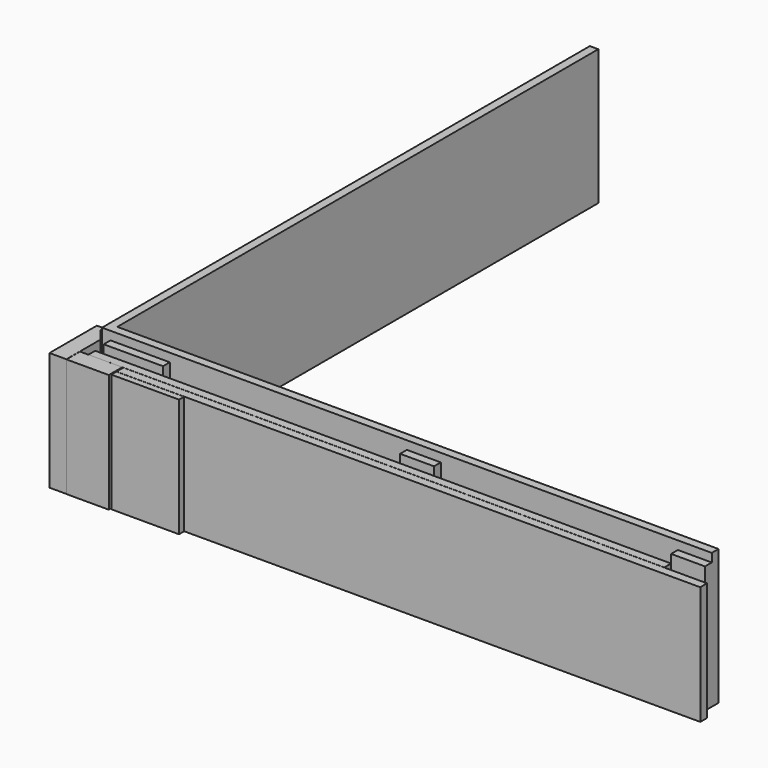
from build123d import *

# Parameters (mm, degrees)
F1_DEPTH  = 203.2
F2_W      = 50.8
F2_H      = 12.7
F2_W_2    = 88.9
F2_W_3    = 12.7
F2_H_2    = 88.9
F2_H_3    = 50.8
F3_DEPTH  = 190.5
F4_W      = 25.4
F4_H      = 88.9
F4_W_2    = 63.5
F4_H_2    = 25.4
F5_DEPTH  = 177.8
F6_W      = 15.875
F6_H      = 847.4964
F7_DEPTH  = 177.8
F8_W      = 863.6
F8_H      = 12.7
F9_DEPTH  = 177.8
F10_W     = 875.475859
F10_H     = 12.7
F10_W_2   = 101.6
F10_H_2   = 9.525
F11_DEPTH = 177.8


with BuildPart() as f1:
    # F0 (on Top) → F1 (new body)
    with BuildSketch(Plane.XY):
        Polygon((0, 914.4), (0, 0), (914.4, 0), (914.4, 12.7), (12.7, 12.7), (12.7, 914.4), align=None)
    extrude(amount=F1_DEPTH)

    # F2 (on Top) → F3 (join)
    with BuildSketch(Plane.XY):
        with Locations((482.6, -6.35)):
            Rectangle(F2_W, F2_H)
        with Locations((889, -6.35)):
            Rectangle(F2_W, F2_H)
        with Locations((57.15, -6.35)):
            Rectangle(F2_W_2, F2_H)
        with Locations((-6.35, 57.15)):
            Rectangle(F2_W_3, F2_H_2)
        with Locations((-6.35, 482.6)):
            Rectangle(F2_W_3, F2_H_3)
        with Locations((-6.35, 889)):
            Rectangle(F2_W_3, F2_H_3)
    extrude(amount=F3_DEPTH)

    # F6 (on Top) → F7 (join)
    with BuildSketch(Plane.XY):
        with Locations((-20.6375, 465.2518)):
            Rectangle(F6_W, F6_H)
    extrude(amount=F7_DEPTH)


with BuildPart() as f5:
    # F4 (on Top) → F5 (new body)
    with BuildSketch(Plane.XY):
        with Locations((-25.654, -6.1214)):
            Rectangle(F4_W, F4_H)
        with Locations((19.05, -38.1254)):
            Rectangle(F4_W_2, F4_H_2)
    extrude(amount=F5_DEPTH)


with BuildPart() as f9:
    # F8 (on Top) → F9 (new body)
    with BuildSketch(Plane.XY):
        with Locations((431.8, -19.05)):
            Rectangle(F8_W, F8_H)
    extrude(amount=F9_DEPTH)


with BuildPart() as f11:
    # F10 (on Top) → F11 (new body)
    with BuildSketch(Plane.XY):
        with Locations((490.125429, -32.004)):
            Rectangle(F10_W, F10_H)
        with Locations((103.1875, -43.3705)):
            Rectangle(F10_W_2, F10_H_2)
    extrude(amount=F11_DEPTH)


solid = Compound([f1.part, f5.part, f9.part, f11.part])
